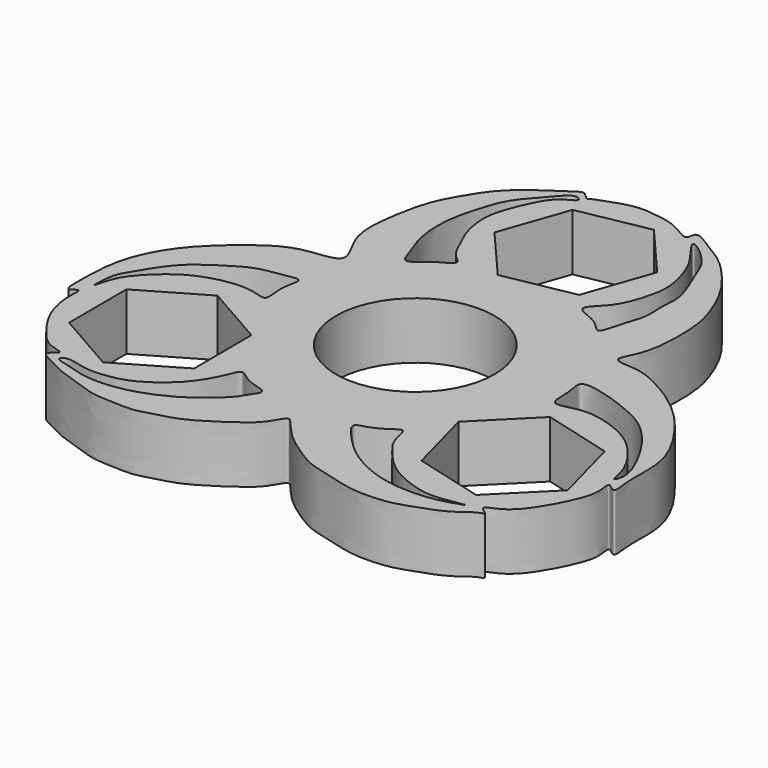
from build123d import *

# Parameters (mm, degrees)
F2_DEPTH = 7.874
F0_R     = 10.9855
F4_DEPTH = 49.53
F5_DEPTH = 41.402


with BuildPart() as f2:
    # F1 (on Top) → F2 (new body)
    with BuildSketch(Plane.XY):
        with BuildLine():
            add(Edge.make_bspline(
                [(-18.8908670098, 10.9867043793), (-18.4658961968, 11.8199711513), (-21.3627002464, 15.4967400859), (-21.0443238153, 21.1436163423), (-19.9078597285, 26.8863387397), (-18.1998908276, 30.0623664689), (-15.954669144, 33.7621245721), (-12.7844833945, 36.3773208045), (-9.9454929636, 38.2330049472), (-8.1389283488, 39.5527380672), (-7.5874885712, 38.9135540155), (-6.6656134694, 38.1743901688), (-6.9092948211, 38.5513141312), (-4.6396001716, 39.3007557358), (-2.8267313851, 40.0111246032), (-0.4873475795, 40.3710915802), (1.8837961585, 39.9658727934), (4.3729213998, 39.6363764226), (7.5436987253, 37.2235502129), (7.15049395, 39.9888677541), (10.3208664119, 37.8342255648), (12.4059329471, 36.7024729025), (14.427780204, 34.9642305913), (16.2528737733, 32.8692297379), (18.2200852246, 30.3025104795), (20.3649505342, 25.4525786949), (20.9527377609, 22.0770638462), (21.0525623053, 17.7677929976), (20.4147731464, 13.563835154), (18.3047010732, 10.4874170503), (22.6805426444, 10.7954057113), (26.065874663, 9.1029543919), (28.960077058, 7.4021721071), (32.0056749458, 4.9313714185), (34.8572867467, 1.5459772044), (38.4566567075, -4.3939032357), (37.6540503672, -10.2468948787), (38.5434576384, -13.9511676896), (36.4031042885, -11.7568153465), (37.2418446532, -14.5880414565), (36.055084604, -17.7728540683), (34.1168829396, -21.5345193663), (31.7047451205, -24.3636329859), (28.7521233667, -25.0814035855), (31.0131865597, -26.1590852597), (29.4682872511, -26.3966246587), (27.4277700123, -28.3953228692), (23.2800392027, -29.7737363398), (20.8044204154, -30.6501652961), (17.0033746309, -30.8573621983), (14.3968158515, -30.4463989921), (11.1372855067, -29.4894610263), (8.4215007615, -28.9144792448), (5.0075084464, -26.6867263597), (2.6074134956, -24.8235995742), (0.8277955427, -22.635375105), (-0.1306608099, -21.6249444367), (-1.292163166, -24.4420292008), (-4.3049397986, -26.6058229424), (-8.860893711, -29.641469994), (-11.9984528761, -30.1999890201), (-14.3540026321, -31.0909350555), (-17.2666370202, -30.8604322186), (-20.157323297, -30.8582326391), (-22.9247911241, -29.7116289964), (-26.0217834589, -28.8884492589), (-27.8693757698, -27.7285998571), (-30.8255000485, -26.4979382966), (-28.1497167301, -25.1883067399), (-31.2121780031, -24.9300677407), (-33.3863143156, -22.2740946244), (-35.7653668411, -18.9143300637), (-36.5915825405, -14.8191168196), (-36.195070852, -12.1188583166), (-37.8418442016, -13.8728825013), (-37.842851004, -10.4259880493), (-37.7288390804, -5.0125707748), (-35.6029749897, 0.1526549302), (-32.1277207939, 4.3408963143), (-27.5282510934, 8.1342149169), (-23.614559951, 10.2186914099), (-19.3047942183, 10.1750914912), (-18.8908670098, 10.9867043793)],
                knots=[0, 0, 0, 0, 0.0153294798, 0.0329392806, 0.0501249212, 0.0637564373, 0.0785088464, 0.0931362746, 0.1066977427, 0.116484391, 0.1227761494, 0.1296930345, 0.1319560989, 0.1422377691, 0.1530514506, 0.1638350713, 0.1748052794, 0.1869176205, 0.1990459046, 0.2066482905, 0.2185746679, 0.2305598744, 0.2420132895, 0.2538529565, 0.2668982712, 0.2832929054, 0.2967170163, 0.3114927333, 0.326818962, 0.3379579282, 0.3505718115, 0.3650010086, 0.3781165381, 0.392089367, 0.4073041219, 0.4259113324, 0.4440471557, 0.4547697573, 0.4629067702, 0.4721905201, 0.4859317123, 0.500804284, 0.5150760361, 0.5248811169, 0.5328414347, 0.5391720392, 0.5515971733, 0.5665428938, 0.578446352, 0.5921287697, 0.6040232272, 0.6170233312, 0.6291282373, 0.6434207931, 0.6563038067, 0.6683915909, 0.6749664705, 0.6858813344, 0.7002651325, 0.7170296424, 0.7297795073, 0.7409429967, 0.7531051551, 0.765286224, 0.7777408772, 0.7903908805, 0.8018172184, 0.8123685507, 0.8206671501, 0.8302861748, 0.8438729502, 0.8585349714, 0.8737188916, 0.8829919696, 0.8902186167, 0.9009214403, 0.9183718982, 0.9352005744, 0.9519570576, 0.969299919, 0.9850688833, 1, 1, 1, 1], degree=3))
        make_face()
        with BuildLine():
            add(Edge.make_bspline(
                [(-10.710706003, -16.646752134), (-10.2989887473, -16.5880198763), (-8.9622758088, -18.1899704298), (-5.4897707632, -18.3997057264), (-6.7718678655, -20.2852201092), (-7.6901508737, -21.8300189629), (-9.6681831246, -23.5369333138), (-11.3218858163, -24.9187955436), (-14.1907002429, -26.5218922501), (-17.5524319194, -27.7822481774), (-21.1177130754, -28.2445694022), (-23.9171883148, -28.0310044692), (-25.9375619042, -27.2613211679), (-28.5573310849, -26.7858626342), (-27.4105272086, -25.6163328612), (-24.4275730044, -26.8030509277), (-21.5488937721, -26.5069660274), (-18.7661863814, -25.9605375855), (-15.4855673611, -23.7826232617), (-13.1514153723, -21.3307938815), (-11.5328838446, -18.2580229322), (-11.0550589743, -16.695874747), (-10.710706003, -16.646752134)],
                knots=[0, 0, 0, 0, 0.0467843214, 0.0988528009, 0.1362080612, 0.1800618939, 0.2295800715, 0.2757602626, 0.3316786436, 0.3914410934, 0.4505867555, 0.501911673, 0.5503319521, 0.5946128332, 0.6218654244, 0.6764428855, 0.7301915659, 0.7822795544, 0.8433518524, 0.9014994432, 0.9608704278, 1, 1, 1, 1], degree=3))
        make_face(mode=Mode.SUBTRACT)
        with BuildLine():
            add(Edge.make_bspline(
                [(-19.3538311869, 4.0096519515), (-19.1004646169, 3.6637009422), (-20.0062512259, 1.4837099962), (-18.9479312948, -2.1503476589), (-21.4066457464, -1.0388830319), (-24.1799680923, -0.8885688601), (-27.3127689174, -1.546137924), (-30.3713744751, -2.8758512769), (-33.4195735353, -5.5368189918), (-35.3729860609, -8.1319321703), (-36.0673017217, -12.011934313), (-35.8598182749, -7.8016651725), (-35.1936574345, -6.488824246), (-33.7654296306, -4.0622183055), (-31.9447811517, -1.473566371), (-30.2515182542, 0.0409573858), (-27.0542690373, 2.1543076677), (-24.4459069906, 3.5840132208), (-21.0454940807, 3.9061244171), (-19.5456872784, 4.2716155108), (-19.3538311869, 4.0096519515)],
                knots=[0, 0, 0, 0, 0.0534804234, 0.1107515923, 0.1535420879, 0.2109022963, 0.2702402347, 0.3311298694, 0.3975354194, 0.4617061977, 0.5101627129, 0.563582152, 0.6085331497, 0.6634859207, 0.7228327857, 0.7736045367, 0.8380723801, 0.8966931564, 0.9595031617, 1, 1, 1, 1], degree=3))
        make_face(mode=Mode.SUBTRACT)
        with BuildLine():
            add(Edge.make_bspline(
                [(11.4441867918, -16.483977437), (11.7807356823, -16.6999399345), (12.0061046954, -18.9427971265), (13.4234705253, -20.8154636929), (15.4383750529, -23.2251757408), (17.9437804462, -24.9494844405), (20.930365072, -26.067829395), (23.794726484, -26.6942886856), (29.3314459974, -25.4288959424), (24.9213143855, -26.8295947233), (22.3995844708, -27.2068947646), (18.3522772182, -27.1546495508), (14.4696425645, -26.0677589532), (10.7353577304, -23.8895561595), (8.773439284, -21.9168871417), (7.4158043741, -20.4986312618), (6.001272841, -18.6029298313), (8.2558519156, -18.2921633321), (10.3342894582, -17.0181765033), (11.2135119675, -16.3359540366), (11.4441867918, -16.483977437)],
                knots=[0, 0, 0, 0, 0.0504424512, 0.1039529846, 0.1627225638, 0.2213115047, 0.279689532, 0.3421283606, 0.4046708205, 0.4575770041, 0.5164336094, 0.5822171704, 0.6504002787, 0.7198387941, 0.7751690232, 0.8240042837, 0.8672107195, 0.9099064951, 0.9654261123, 1, 1, 1, 1], degree=3))
        make_face(mode=Mode.SUBTRACT)
        with BuildLine():
            add(Edge.make_bspline(
                [(19.7335835546, 4.0870527737), (19.3674923338, 3.7198471394), (20.0943514211, 1.8593018685), (19.5632499092, -2.0250417782), (23.3714071945, -0.4190978467), (26.781361401, -0.8764263655), (30.4928328984, -2.2711773029), (33.4185041684, -4.6389714387), (36.1165609146, -8.6139904358), (36.3128683446, -11.8002220163), (37.2206982778, -9.5583948997), (35.6153877383, -5.8695709239), (33.5103979805, -2.3791016748), (30.4229684219, 0.996040848), (26.8329168746, 2.5862033008), (23.2083546801, 3.9637351623), (20.163676424, 4.5184548831), (19.7335835546, 4.0870527737)],
                knots=[0, 0, 0, 0, 0.0545289721, 0.1173152428, 0.1790687585, 0.2485375594, 0.3196829357, 0.3905717995, 0.4725057985, 0.5240837767, 0.5643354817, 0.637680244, 0.7129073345, 0.7895200335, 0.86084696, 0.9359380375, 1, 1, 1, 1], degree=3))
        make_face(mode=Mode.SUBTRACT)
        with BuildLine():
            add(Edge.make_bspline(
                [(-13.1345419213, 14.8332612589), (-12.5748297363, 14.6914897288), (-10.9084100723, 16.5451845607), (-8.9555597726, 17.2917844977), (-8.3251946392, 18.15601528), (-10.1564159511, 19.169625821), (-11.3114976554, 22.4297130448), (-12.1763421264, 23.7160169936), (-13.0418050426, 27.6705536693), (-12.2872601956, 30.7881163307), (-10.9053044088, 34.1525447787), (-9.339002471, 36.6800285021), (-6.9394224351, 37.4427491922), (-8.549555294, 38.6217368259), (-10.8075321066, 35.5377035849), (-12.7546052653, 33.6771800756), (-14.0183450174, 31.2372989078), (-14.5715803799, 29.2345275926), (-15.0516027166, 27.6540746479), (-15.5303022064, 25.3324888669), (-15.6938931419, 22.6485156565), (-15.2061531525, 19.3184755261), (-14.183241591, 17.2519166694), (-13.6625201318, 14.9669947754), (-13.1345419213, 14.8332612589)],
                knots=[0, 0, 0, 0, 0.0479945231, 0.0922720905, 0.1158335714, 0.1544011334, 0.2083622639, 0.2461691754, 0.3030560262, 0.3563996152, 0.4120251018, 0.4634913676, 0.5023993883, 0.5299505203, 0.5839387702, 0.6345513967, 0.6821734142, 0.724082178, 0.7614967503, 0.8059656729, 0.8546990238, 0.9074584802, 0.95472662, 1, 1, 1, 1], degree=3))
        make_face(mode=Mode.SUBTRACT)
        with BuildLine():
            add(Edge.make_bspline(
                [(8.7972553447, 17.9998464882), (8.9956585573, 17.3738352185), (12.0183402324, 16.7790415713), (13.5388592915, 13.9323383567), (14.3127986663, 18.1202591905), (15.5103569219, 20.5939817622), (15.098253099, 23.6997190662), (15.5762481292, 26.3168192084), (14.39089284, 29.5461427929), (13.3322173512, 31.7778826265), (12.3968373601, 34.8994753261), (8.2713551904, 38.0252909693), (9.0563591642, 36.2556016743), (11.3033325185, 33.681398738), (12.4935735504, 30.3014106007), (13.0476064746, 27.338789746), (12.4802049247, 24.5013282548), (11.1827235017, 20.4799567859), (8.6090181463, 18.5937814656), (8.7972553447, 17.9998464882)],
                knots=[0, 0, 0, 0, 0.0631156308, 0.1119322424, 0.1702278936, 0.2303964243, 0.2887214372, 0.3445705889, 0.4065724866, 0.4599089261, 0.5246515078, 0.5917482394, 0.6222333417, 0.6870284817, 0.7524664133, 0.8105267707, 0.8679810509, 0.9401183612, 1, 1, 1, 1], degree=3))
        make_face(mode=Mode.SUBTRACT)
    extrude(amount=F2_DEPTH)

    # F0 (on Top) → F4 (cut)
    with BuildSketch(Plane.XY):
        Circle(F0_R)
    extrude(amount=F4_DEPTH, mode=Mode.SUBTRACT)

    # F3 (on Top) → F5 (cut)
    with BuildSketch(Plane.XY):
        Polygon((6.5052307806, 20.2650755283), (9.7979935588, 29.6777464893), (3.2927627781, 37.2356981844), (-6.5052307806, 35.3809789184), (-9.7979935588, 25.9683079574), (-3.2927627781, 18.4103562623), align=None)
        Polygon((-23.8695418559, -24.2594008246), (-15.2552336576, -19.2360199315), (-15.2984550247, -9.2641197492), (-23.9559845902, -4.3156004599), (-32.5702927885, -9.338981353), (-32.5270714214, -19.3108815353), align=None)
        Polygon((27.0915114677, -23.3191375682), (34.1455366862, -16.2706349223), (31.5683669454, -6.6374185611), (21.9371719861, -4.0527048459), (14.8831467676, -11.1012074919), (17.4603165084, -20.734423853), align=None)
    extrude(amount=F5_DEPTH, mode=Mode.SUBTRACT)


solid = f2.part
